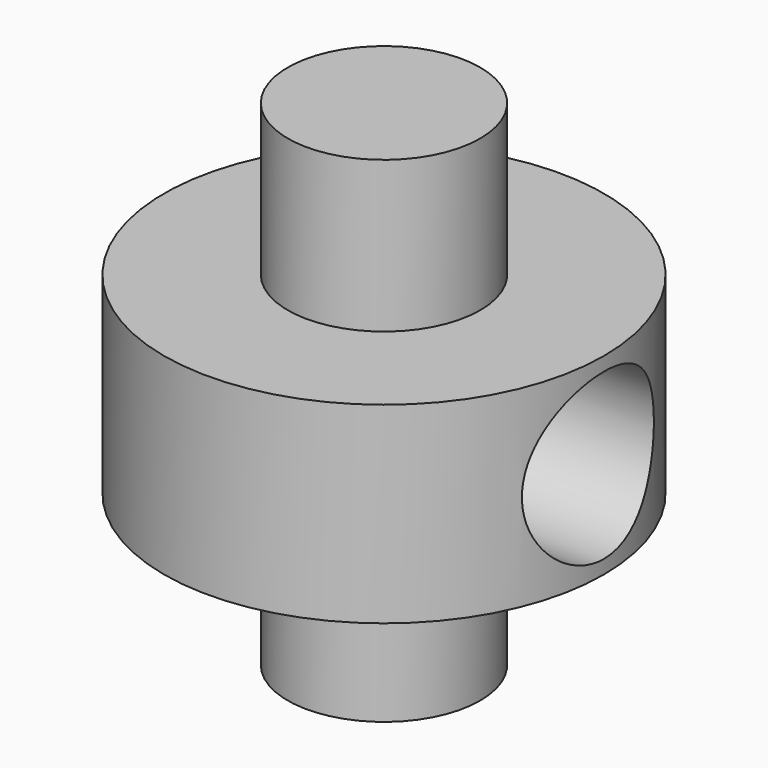
from build123d import *

# Parameters (mm, degrees)
F0_R     = 4
F0_R_2   = 1.75
F1_DEPTH = 1.75
F2_DEPTH = 4.5
F3_R     = 1.5
F4_DEPTH = 5


with BuildPart() as f1:
    # F0 (on Top) → F1 (new body, symmetric)
    with BuildSketch(Plane.XY):
        Circle(F0_R)
        Circle(F0_R_2, mode=Mode.SUBTRACT)
    extrude(amount=F1_DEPTH, both=True)

    # F0 (on Top) → F2 (join, symmetric)
    with BuildSketch(Plane.XY):
        Circle(F0_R_2)
    extrude(amount=F2_DEPTH, both=True)

    # F3 (on Right) → F4 (cut, symmetric)
    with BuildSketch(Plane.YZ):
        Circle(F3_R)
    extrude(amount=F4_DEPTH, both=True, mode=Mode.SUBTRACT)


solid = f1.part
